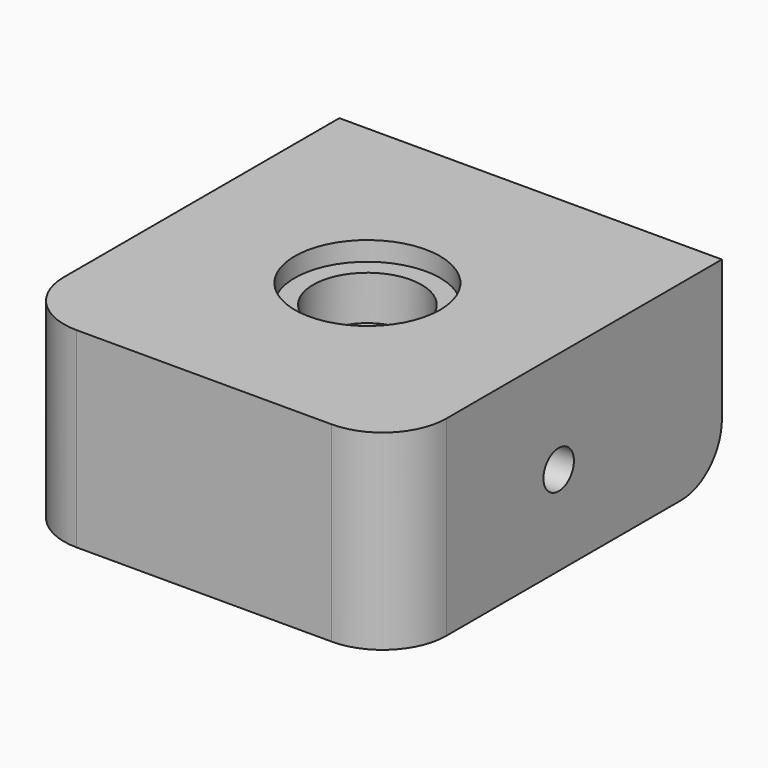
from build123d import *

# Parameters (mm, degrees)
F0_W      = 38.1
F0_H      = 40.64
F1_DEPTH  = 19.05
F4_R      = 7.239
F5_DEPTH  = 1.905
F6_R      = 6.35
F8_R      = 1.89865
F10_R     = 1.89865
F11_DEPTH = 12.7
F12_R     = 5.08


with BuildPart() as f1:
    # F0 (on Top) → F1 (new body)
    with BuildSketch(Plane.XY):
        Rectangle(F0_W, F0_H)
    extrude(amount=-F1_DEPTH)

    # F2 (on Front) → F3 (revolve, cut)
    with BuildSketch(Plane.XZ):
        Polygon((5.3975, 0), (0, 0), (0, -5.7912), (4.3815, -5.7912), (4.3815, -7.0612), (5.3975, -7.0612), align=None)
    revolve(axis=Axis((0, 0, -9.525), (0, 0, -1)), mode=Mode.SUBTRACT)

    # F4 (on face) → F5 (cut)
    with BuildSketch(Plane.XY):
        Circle(F4_R)
    extrude(amount=-F5_DEPTH, mode=Mode.SUBTRACT)

    # F6
    f6_edges = [f1.edges().sort_by_distance(p)[0] for p in [
        (-19.05, -20.32, -9.525),
        (19.05, -20.32, -9.525),
    ]]
    fillet(f6_edges, radius=F6_R)

    # F9: sweep along a path in F7
    with BuildLine(Plane.XZ) as f9_path:
        Line((0, -5.7912), (0, -7.62))
        ThreePointArc((0, -7.62), (0.7439487758, -9.4160512242), (2.54, -10.16))
        Line((2.54, -10.16), (19.05, -10.16))
    # F8 (on face) → F9 (sweep, cut)
    with BuildSketch(Plane.XY.offset(-5.7912)):
        Circle(F8_R)
    sweep(path=f9_path.line, mode=Mode.SUBTRACT)

    # F10 (on face) → F11 (cut)
    with BuildSketch(Plane(origin=(0, 20.32, 0), x_dir=(-1, 0, 0), z_dir=(0, 1, 0))):
        with Locations((-12.7, -6.35)):
            Circle(F10_R)
        with Locations((12.7, -6.35)):
            Circle(F10_R)
    extrude(amount=-F11_DEPTH, mode=Mode.SUBTRACT)

    # F12
    f12_edges = [f1.edges().sort_by_distance(p)[0] for p in [
        (0, 20.32, -19.05),
    ]]
    fillet(f12_edges, radius=F12_R)


solid = f1.part
